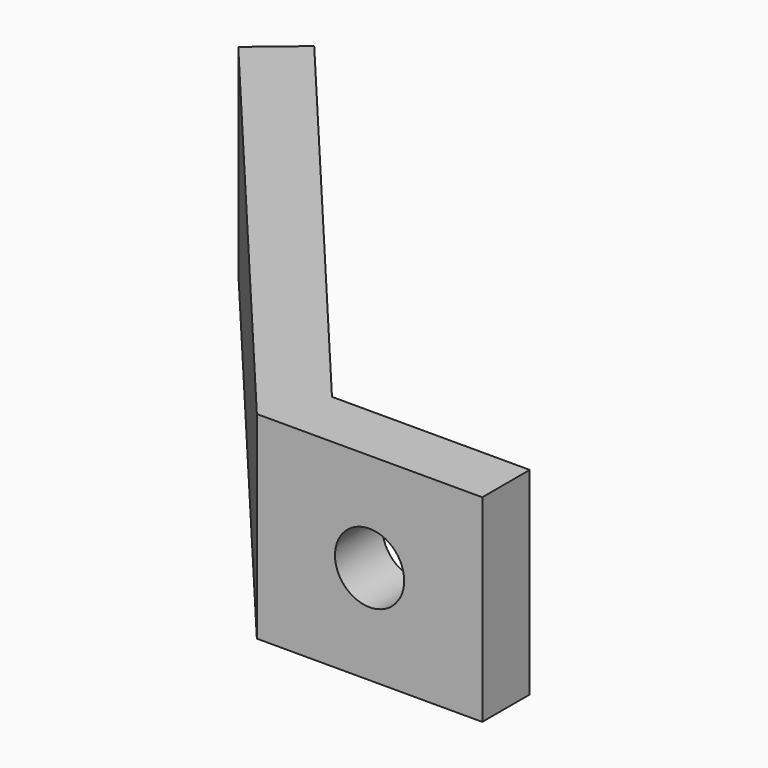
from build123d import *

# Parameters (mm, degrees)
F1_DEPTH = 10
F2_R     = 1.75
F3_DEPTH = 3


with BuildPart() as f1:
    # F0 (on Top) → F1 (new body)
    with BuildSketch(Plane.XY):
        Polygon((-11.398923, 0), (0, 0), (0, 3), (-10, 3), (-29.283628, 25.981333), (-31.581762, 24.05297), align=None)
    extrude(amount=F1_DEPTH)

    # F2 (on face) → F3 (cut)
    with BuildSketch(Plane.XZ):
        with Locations((-5.699461, 5)):
            Circle(F2_R)
    extrude(amount=-F3_DEPTH, mode=Mode.SUBTRACT)


solid = f1.part
